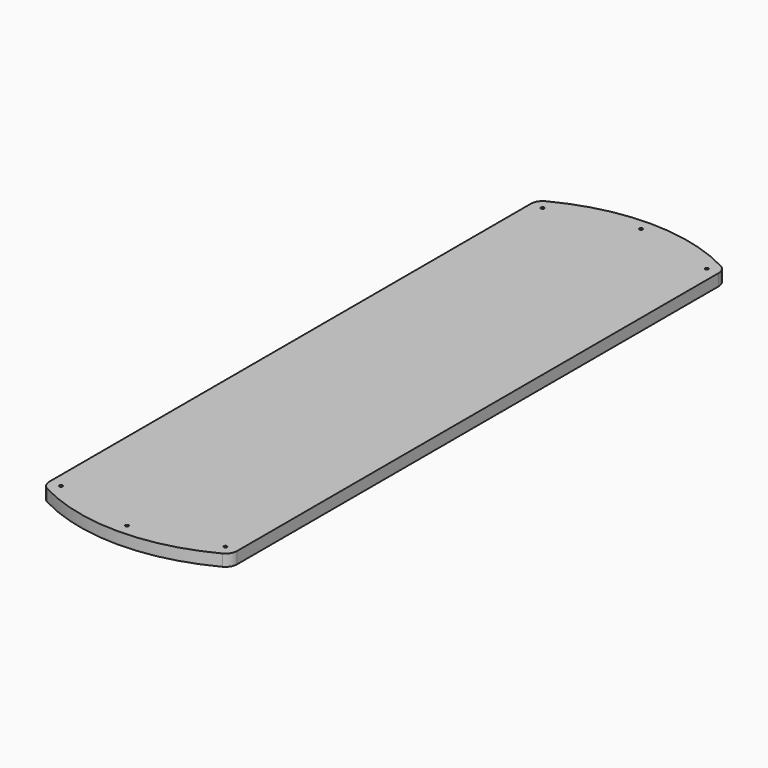
from build123d import *

# Parameters (mm, degrees)
F0_R     = 1.7272
F1_DEPTH = 12.7


with BuildPart() as f1:
    # F0 (on Top) → F1 (new body)
    with BuildSketch(Plane.XY):
        with BuildLine():
            Line((101.6, -325.721193), (101.6, 325.721193))
            ThreePointArc((101.6, 325.721193), (99.77563, 332.279444), (94.826667, 336.953495))
            ThreePointArc((94.826667, 336.953495), (0, 360.436653), (-94.826667, 336.953495))
            ThreePointArc((-94.826667, 336.953495), (-99.77563, 332.279444), (-101.6, 325.721193))
            Line((-101.6, 325.721193), (-101.6, -325.721193))
            ThreePointArc((-101.6, -325.721193), (-99.77563, -332.279444), (-94.826667, -336.953495))
            ThreePointArc((-94.826667, -336.953495), (0, -360.436653), (94.826667, -336.953495))
            ThreePointArc((94.826667, -336.953495), (99.77563, -332.279444), (101.6, -325.721193))
        make_face()
        with Locations((-88.9, -325.721193)):
            Circle(F0_R, mode=Mode.SUBTRACT)
        with Locations((0, -347.736653)):
            Circle(F0_R, mode=Mode.SUBTRACT)
        with Locations((88.9, -325.721193)):
            Circle(F0_R, mode=Mode.SUBTRACT)
        with Locations((-88.9, 325.721193)):
            Circle(F0_R, mode=Mode.SUBTRACT)
        with Locations((0, 347.736653)):
            Circle(F0_R, mode=Mode.SUBTRACT)
        with Locations((88.9, 325.721193)):
            Circle(F0_R, mode=Mode.SUBTRACT)
    extrude(amount=F1_DEPTH)


solid = f1.part
